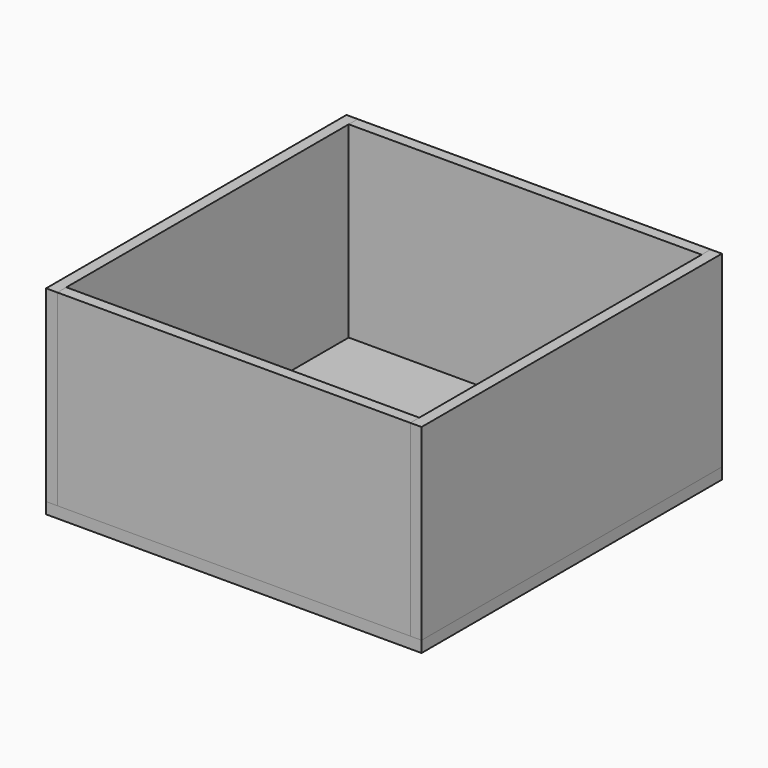
from build123d import *

# Parameters (mm, degrees)
F0_W     = 100
F0_H     = 100
F1_DEPTH = 3
F2_W     = 94
F2_H     = 3
F3_DEPTH = 50
F4_DEPTH = 50


with BuildPart() as f1:
    # F0 (on Top) → F1 (new body)
    with BuildSketch(Plane.XY):
        Rectangle(F0_W, F0_H)
    extrude(amount=F1_DEPTH)


with BuildPart() as f3:
    # F2 (on face) → F3 (new body)
    with BuildSketch(Plane.XY.offset(3)):
        with Locations((0, 48.5)):
            Rectangle(F2_W, F2_H)
        with Locations((0, -48.5)):
            Rectangle(F2_W, F2_H)
    extrude(amount=F3_DEPTH)


with BuildPart() as f4:
    # F2 (on face) → F4 (new body)
    with BuildSketch(Plane.XY.offset(3)):
        Polygon((-47, -50), (-47, -47), (-47, 47), (-47, 50), (-50, 50), (-50, -50), align=None)
        Polygon((47, 47), (47, -47), (47, -50), (50, -50), (50, 50), (47, 50), align=None)
    extrude(amount=F4_DEPTH)


solid = Compound([f1.part, f3.part, f4.part])
